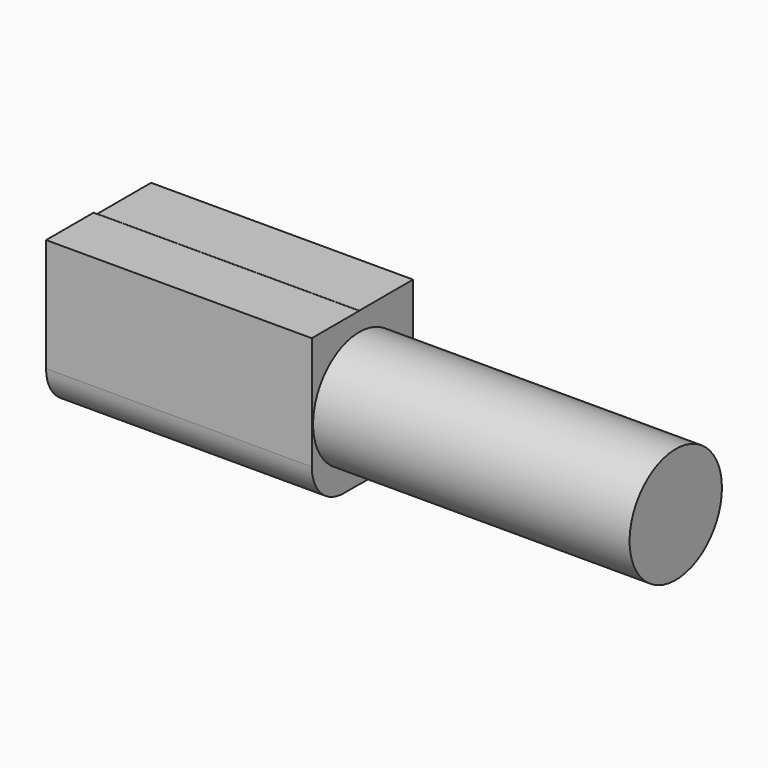
from build123d import *

# Parameters (mm, degrees)
F0_R     = 18.522455
F1_DEPTH = 101.6
F3_W     = 85.290574
F3_H     = 49.032718
F4_DEPTH = 19.05
F2_W     = 84.098086
F2_H     = 49.134076
F5_DEPTH = 21.59
F6_R     = 12.7


with BuildPart() as f1:
    # F0 (on Right) → F1 (new body)
    with BuildSketch(Plane.YZ):
        Circle(F0_R)
    extrude(amount=F1_DEPTH)

    # F3 (on Front) → F4 (join)
    with BuildSketch(Plane.XZ):
        with Locations((-42.645287, 0)):
            Rectangle(F3_W, F3_H)
    extrude(amount=F4_DEPTH)

    # F2 (on Front) → F5 (join)
    with BuildSketch(Plane.XZ):
        with Locations((-42.049043, 0)):
            Rectangle(F2_W, F2_H)
    extrude(amount=-F5_DEPTH)

    # F6
    f6_edges = [f1.edges().sort_by_distance(p)[0] for p in [
        (-42.049043, 21.59, -24.567038),
        (-42.645287, -19.05, -24.516359),
    ]]
    fillet(f6_edges, radius=F6_R)


solid = f1.part
